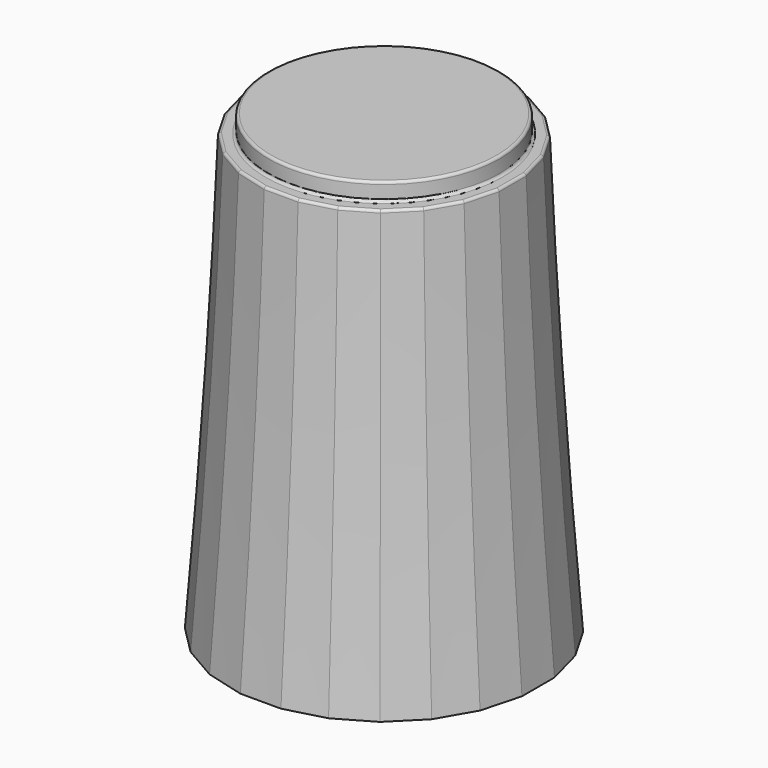
from build123d import *

# Parameters (mm, degrees)
SKETCH040_R     = 4.5
PAD010_DEPTH    = 0.7
SKETCH039_R     = 5
POCKET016_DEPTH = 1
SKETCH037_R     = 4.65
POCKET015_DEPTH = 1
POCKET017_DEPTH = 8
CHAMFER012_SIZE = 1.4
CHAMFER011_SIZE = 0.3
FILLET005_R     = 0.1


with BuildPart() as part:
    # Sketch045 → AdditiveLoft004 section 0
    with BuildSketch(Plane.XY):
        Polygon((-0.789915, 6), (-2.315914, 5.59111), (-3.684086, 4.801195), (-4.801195, 3.684086), (-5.59111, 2.315914), (-6, 0.789915), (-6, -0.789915), (-5.59111, -2.315914), (-4.801195, -3.684086), (-3.684086, -4.801195), (-2.315914, -5.59111), (-0.789915, -6), (0.789915, -6), (2.315914, -5.59111), (3.684086, -4.801195), (4.801195, -3.684086), (5.59111, -2.315914), (6, -0.789915), (6, 0.789915), (5.59111, 2.315914), (4.801195, 3.684086), (3.684086, 4.801195), (2.315914, 5.59111), (0.789915, 6), align=None)
    # Sketch044 → AdditiveLoft004 section 1
    with BuildSketch(Plane.XY.offset(7)):
        Polygon((-0.724089, 5.5), (-2.122921, 5.125184), (-3.377079, 4.401095), (-4.401095, 3.377079), (-5.125184, 2.122921), (-5.5, 0.724089), (-5.5, -0.724089), (-5.125184, -2.122921), (-4.401095, -3.377079), (-3.377079, -4.401095), (-2.122921, -5.125184), (-0.724089, -5.5), (0.724089, -5.5), (2.122921, -5.125184), (3.377079, -4.401095), (4.401095, -3.377079), (5.125184, -2.122921), (5.5, -0.724089), (5.5, 0.724089), (5.125184, 2.122921), (4.401095, 3.377079), (3.377079, 4.401095), (2.122921, 5.125184), (0.724089, 5.5), align=None)
    # Sketch046 → AdditiveLoft004 section 2
    with BuildSketch(Plane.XY.offset(17)):
        Polygon((-4.659258, 1.929928), (-5, 0.658262), (-5, -0.658262), (-4.659258, -1.929928), (-4.000996, -3.070072), (-3.070072, -4.000996), (-1.929928, -4.659258), (-0.658262, -5), (0.658262, -5), (1.929928, -4.659258), (3.070072, -4.000996), (4.000996, -3.070072), (4.659258, -1.929928), (5, -0.658262), (5, 0.658262), (4.659258, 1.929928), (4.000996, 3.070072), (3.070072, 4.000996), (1.929928, 4.659258), (0.658262, 5), (-0.658262, 5), (-1.929928, 4.659258), (-3.070072, 4.000996), (-4.000996, 3.070072), align=None)
    loft()

    # Sketch040 (on Face3 of AdditiveLoft004) → Pad010 (new body)
    with BuildSketch(Plane.XY.offset(17)):
        Circle(SKETCH040_R)
    extrude(amount=PAD010_DEPTH)

    # Sketch039 (on Face1 of Pad010) → Pocket016 (cut)
    with BuildSketch(Plane(origin=(0, 0, 0), x_dir=(1, 0, 0), z_dir=(0, 0, -1))):
        Circle(SKETCH039_R)
    extrude(amount=-POCKET016_DEPTH, mode=Mode.SUBTRACT)

    # Sketch037 (on Face28 of Pocket016) → Pocket015 (cut)
    with BuildSketch(Plane(origin=(0, 0, 1), x_dir=(1, 0, 0), z_dir=(0, 0, -1))):
        Circle(SKETCH037_R)
    extrude(amount=-POCKET015_DEPTH, mode=Mode.SUBTRACT)

    # Sketch038 (on Face32 of Pocket015) → Pocket017 (cut)
    with BuildSketch(Plane(origin=(0, 0, 2), x_dir=(1, 0, 0), z_dir=(0, 0, -1))):
        with BuildLine():
            ThreePointArc((-1.741757, 2.442598), (0, -3), (1.741757, 2.442598))
            Line((-1.741757, 2.442598), (1.741757, 2.442598))
        make_face()
    extrude(amount=-POCKET017_DEPTH, mode=Mode.SUBTRACT)

    # Chamfer012
    chamfer012_edges = [part.edges().sort_by_distance(p)[0] for p in [
        (0, 3, 2),
        (0, -2.442598, 2),
    ]]
    chamfer(chamfer012_edges, length=CHAMFER012_SIZE)

    # Chamfer011
    chamfer011_edges = [part.edges().sort_by_distance(p)[0] for p in [
        (-4.65, 0, 1),
    ]]
    chamfer(chamfer011_edges, length=CHAMFER011_SIZE)

    # Fillet005
    fillet005_edges = [part.edges().sort_by_distance(p)[0] for p in [
        (-4.5, 0, 17.7),
        (-4.829629, 1.294095, 17),
        (-4.330127, 2.5, 17),
        (-5, 0, 17),
        (-3.535534, 3.535534, 17),
        (-4.829629, -1.294095, 17),
        (-2.5, 4.330127, 17),
        (-4.330127, -2.5, 17),
        (-1.294095, 4.829629, 17),
        (-3.535534, -3.535534, 17),
        (0, 5, 17),
        (-2.5, -4.330127, 17),
        (1.294095, 4.829629, 17),
        (-1.294095, -4.829629, 17),
        (2.5, 4.330127, 17),
        (0, -5, 17),
        (3.535534, 3.535534, 17),
        (1.294095, -4.829629, 17),
        (4.330127, 2.5, 17),
        (2.5, -4.330127, 17),
        (4.829629, 1.294095, 17),
        (3.535534, -3.535534, 17),
        (5, 0, 17),
        (4.330127, -2.5, 17),
        (4.829629, -1.294095, 17),
        (-4.5, 0, 17),
    ]]
    fillet(fillet005_edges, radius=FILLET005_R)


solid = part.part
